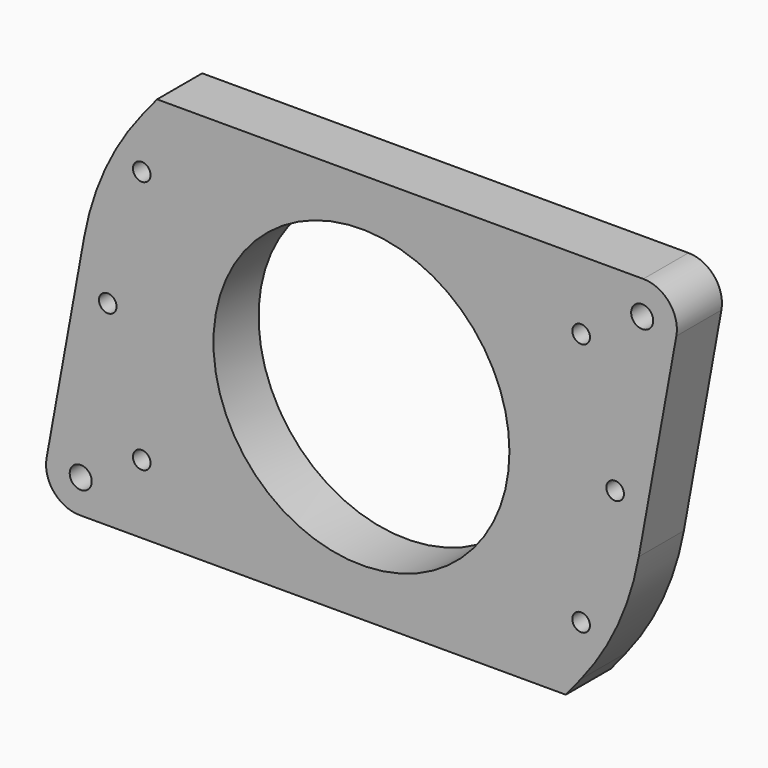
from build123d import *

# Parameters (mm, degrees)
F0_R     = 9.921875
F0_R_2   = 7.9375
F0_R_3   = 133.35
F1_DEPTH = 50.8


with BuildPart() as f1:
    # F0 (on Front) → F1 (new body)
    with BuildSketch(Plane.XZ):
        with BuildLine():
            Line((184.15, -176.276), (197.734989, -159.426705))
            ThreePointArc((197.734989, -159.426705), (230.961031, -105.702422), (249.902299, -45.44052))
            Line((249.902299, -45.44052), (283.738374, 140.642578))
            ThreePointArc((283.738374, 140.642578), (277.206204, 165.417064), (254, 176.276))
            Line((254, 176.276), (0, 176.276))
            Line((0, 176.276), (-184.15, 176.276))
            Line((-184.15, 176.276), (-197.734989, 159.426705))
            ThreePointArc((-197.734989, 159.426705), (-230.961031, 105.702422), (-249.902299, 45.44052))
            Line((-249.902299, 45.44052), (-283.738374, -140.642578))
            ThreePointArc((-283.738374, -140.642578), (-277.206204, -165.417064), (-254, -176.276))
            Line((-254, -176.276), (0, -176.276))
            Line((0, -176.276), (184.15, -176.276))
        make_face()
        with Locations((-252.9586, -146.05)):
            Circle(F0_R, mode=Mode.SUBTRACT)
        with Locations((-197.9676, -114.3)):
            Circle(F0_R_2, mode=Mode.SUBTRACT)
        with Locations((197.9676, -114.3)):
            Circle(F0_R_2, mode=Mode.SUBTRACT)
        with Locations((-228.6, 0)):
            Circle(F0_R_2, mode=Mode.SUBTRACT)
        with Locations((-197.9676, 114.3)):
            Circle(F0_R_2, mode=Mode.SUBTRACT)
        Circle(F0_R_3, mode=Mode.SUBTRACT)
        with Locations((228.6, 0)):
            Circle(F0_R_2, mode=Mode.SUBTRACT)
        with Locations((197.9676, 114.3)):
            Circle(F0_R_2, mode=Mode.SUBTRACT)
        with Locations((252.9586, 146.05)):
            Circle(F0_R, mode=Mode.SUBTRACT)
    extrude(amount=F1_DEPTH)


solid = f1.part
